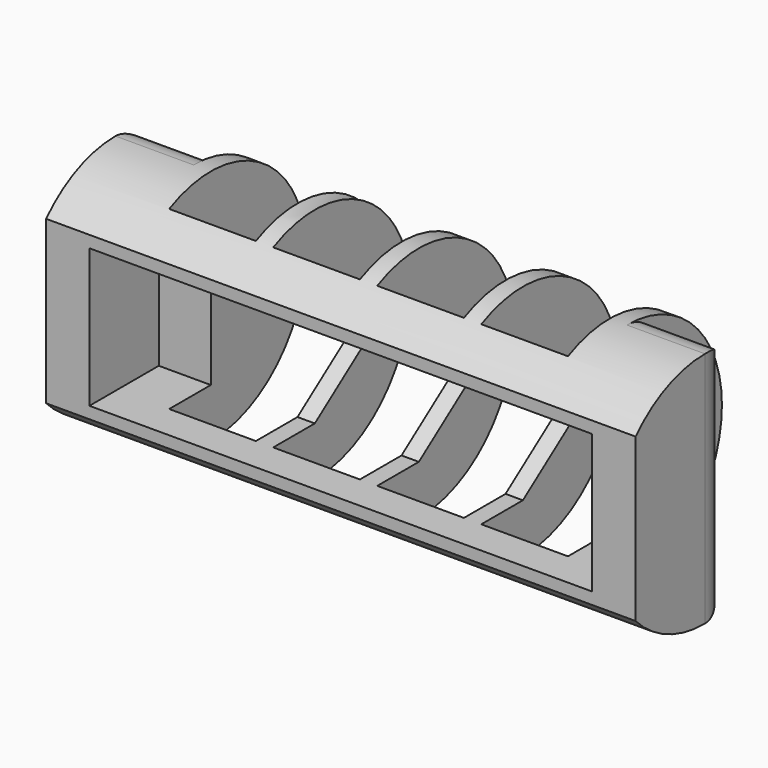
from build123d import *

# Parameters (mm, degrees)
F1_DEPTH      = 17
F1_DEPTH_BACK = 17
F2_W          = 5
F2_H          = 17
F3_DEPTH      = 25
F3_DEPTH_BACK = 25
F5_DEPTH      = 10
F5_DEPTH_BACK = 10
F6_W          = 2.5
F6_H          = 8
F7_DEPTH      = 5
F8_W          = 4.5
F8_H          = 7
F9_DEPTH      = 25
F9_DEPTH_BACK = 25
F10_R         = 2


with BuildPart() as f1:
    # F0 (on Right) → F1 (new body, two sides)
    with BuildSketch(Plane.YZ) as f1_sk:
        with BuildLine():
            ThreePointArc((-5, -4.6821469434), (6.85, 0), (-5, 4.6821469434))
            Line((-5, 4.6821469434), (-5, 4))
            Line((-5, 4), (0, 4))
            Line((0, 4), (0, -4))
            Line((0, -4), (-5, -4))
            Line((-5, -4), (-5, -4.6821469434))
        make_face()
    extrude(amount=F1_DEPTH)
    extrude(f1_sk.sketch, amount=-F1_DEPTH_BACK)

    # F2 (on Top) → F3 (cut, two sides)
    with BuildSketch(Plane.XY) as f3_sk:
        with Locations((-9, 5.5)):
            Rectangle(F2_W, F2_H)
        with Locations((-3, 5.5)):
            Rectangle(F2_W, F2_H)
        with Locations((3, 5.5)):
            Rectangle(F2_W, F2_H)
        with Locations((9, 5.5)):
            Rectangle(F2_W, F2_H)
    extrude(amount=-F3_DEPTH, mode=Mode.SUBTRACT)
    extrude(f3_sk.sketch, amount=F3_DEPTH_BACK, mode=Mode.SUBTRACT)

    # F4 (on Right) → F5 (cut, two sides)
    with BuildSketch(Plane.YZ) as f5_sk:
        Polygon((0, -4), (5.5, 0), (0, 4), align=None)
    extrude(amount=-F5_DEPTH, mode=Mode.SUBTRACT)
    extrude(f5_sk.sketch, amount=F5_DEPTH_BACK, mode=Mode.SUBTRACT)

    # F6 (on face) → F7 (join, through all)
    with BuildSketch(Plane.XZ):
        with Locations((15.75, 0)):
            Rectangle(F6_W, F6_H)
        with Locations((-15.75, 0)):
            Rectangle(F6_W, F6_H)
    extrude(amount=F7_DEPTH)

    # F8 (on Top) → F9 (cut, two sides)
    with BuildSketch(Plane.XY) as f9_sk:
        with Locations((-14.75, 5.5)):
            Rectangle(F8_W, F8_H)
        with Locations((14.75, 5.5)):
            Rectangle(F8_W, F8_H)
    extrude(amount=-F9_DEPTH, mode=Mode.SUBTRACT)
    extrude(f9_sk.sketch, amount=F9_DEPTH_BACK, mode=Mode.SUBTRACT)

    # F10
    f10_edges = [f1.edges().sort_by_distance(p)[0] for p in [
        (17, 2, 0),
        (-17, 2, 0),
        (14.75, 2, 6.551527),
        (14.75, 2, -6.551527),
        (-14.75, 2, -6.551527),
        (-14.75, 2, 6.551527),
    ]]
    fillet(f10_edges, radius=F10_R)


solid = f1.part
